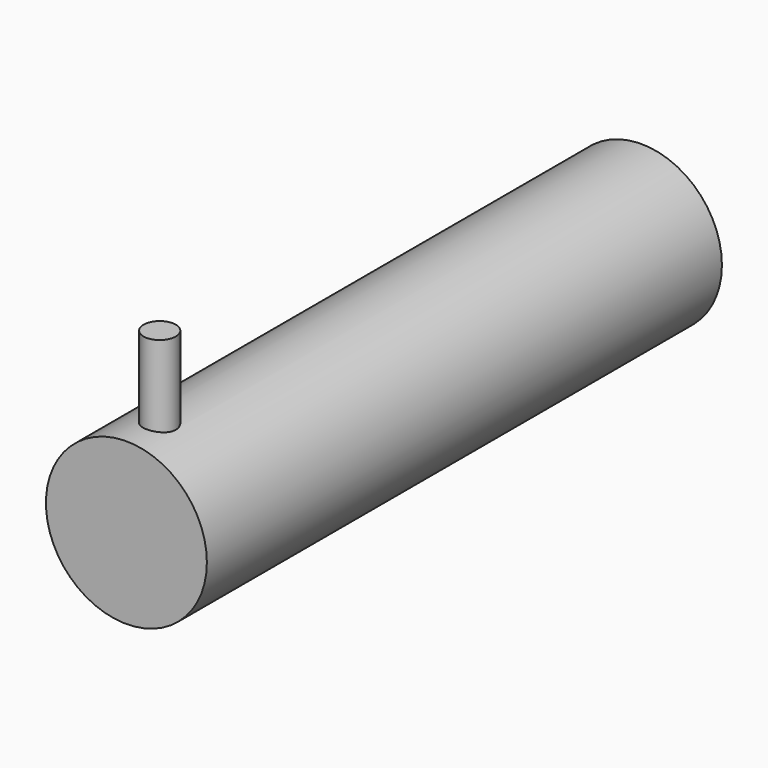
from build123d import *

# Parameters (mm, degrees)
F0_R     = 12.5
F1_DEPTH = 100
F2_R     = 2.5
F3_DEPTH = 25


with BuildPart() as f1:
    # F0 (on Front) → F1 (new body)
    with BuildSketch(Plane.XZ):
        Circle(F0_R)
    extrude(amount=F1_DEPTH)

    # F2 (on Top) → F3 (join)
    with BuildSketch(Plane.XY):
        with Locations((0, -93.530737)):
            Circle(F2_R)
    extrude(amount=F3_DEPTH)


solid = f1.part
